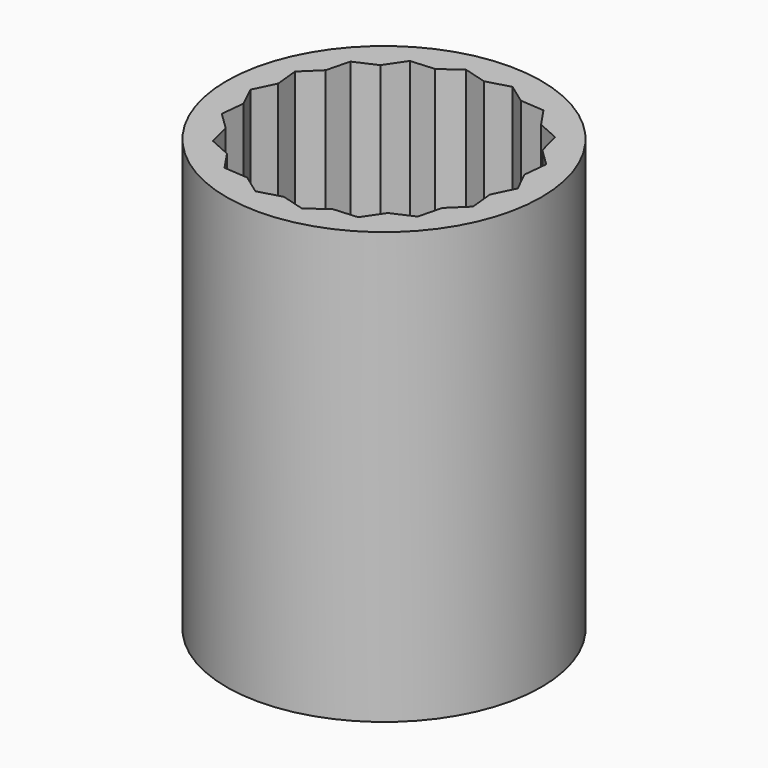
from build123d import *

# Parameters (mm, degrees)
SKETCH_R           = 3.65
PAD_DEPTH          = 10
POCKET_DEPTH       = 8
POLARPATTERN_COUNT = 18


with BuildPart() as part:
    # Sketch → Pad (new body)
    with BuildSketch(Plane.XY):
        Circle(SKETCH_R)
    extrude(amount=PAD_DEPTH)

    # Sketch001 (on Face3 of Pad) → Pocket (cut)
    with BuildSketch(Plane.XY.offset(10)):
        Polygon((-2.9130471244, 1.0602624443), (0, 0), (-3.1, 0), (-2.8559424837, 0.5035797152), align=None)
    pocket = extrude(amount=-POCKET_DEPTH, mode=Mode.SUBTRACT)

    # PolarPattern: Pocket ×18 about axis
    polarpattern_axis = Axis((0, 0, 10), (0, 0, 1))
    for i in range(1, POLARPATTERN_COUNT):
        add(pocket.rotate(polarpattern_axis, i * 360 / POLARPATTERN_COUNT), mode=Mode.SUBTRACT)


solid = part.part
